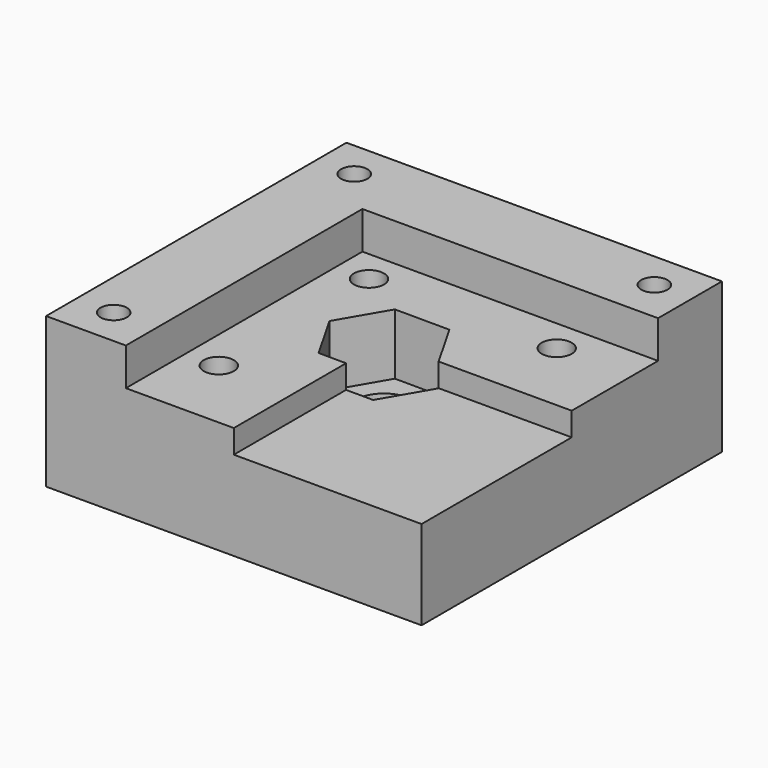
from build123d import *

# Parameters (mm, degrees)
F0_W      = 40
F0_H      = 40
F1_DEPTH  = 16
F2_R      = 3.1
F3_DEPTH  = 14.7
F4_W      = 31.5
F4_H      = 31.5
F5_DEPTH  = 4
F8_DEPTH  = 7
F9_W      = 20
F9_H      = 20
F10_DEPTH = 3
F11_R     = 1.6
F12_DEPTH = 25
F14_R     = 4.8
F15_DEPTH = 1
F16_R     = 1.4
F17_DEPTH = 25


with BuildPart() as f1:
    # F0 (on Top) → F1 (new body)
    with BuildSketch(Plane.XY):
        Rectangle(F0_W, F0_H)
    extrude(amount=-F1_DEPTH)

    # F2 (on Top) → F3 (cut)
    with BuildSketch(Plane.XY):
        Circle(F2_R)
    extrude(amount=-F3_DEPTH, mode=Mode.SUBTRACT)

    # F4 (on Top) → F5 (cut)
    with BuildSketch(Plane.XY):
        with Locations((4.25, -4.25)):
            Rectangle(F4_W, F4_H)
    extrude(amount=-F5_DEPTH, mode=Mode.SUBTRACT)

    # F7 (on offset) → F8 (cut)
    with BuildSketch(Plane.XY.offset(-3.5)):
        Polygon((5.831176, -0.026889), (2.938874, 5.036502), (-2.892302, 5.063391), (-5.831176, 0.026889), (-2.938874, -5.036502), (2.892302, -5.063391), align=None)
    extrude(amount=-F8_DEPTH, mode=Mode.SUBTRACT)

    # F9 (on offset) → F10 (cut)
    with BuildSketch(Plane.XY.offset(-3.5)):
        with Locations((10, -10)):
            Rectangle(F9_W, F9_H)
    extrude(amount=-F10_DEPTH, mode=Mode.SUBTRACT)

    # F11 (on offset) → F12 (cut)
    with BuildSketch(Plane.XY.offset(-3.5)):
        with Locations((-8, 8)):
            Circle(F11_R)
        with Locations((12, 8)):
            Circle(F11_R)
        with Locations((-8, -12)):
            Circle(F11_R)
    extrude(amount=-F12_DEPTH, mode=Mode.SUBTRACT)

    # F14 (on offset) → F15 (cut)
    with BuildSketch(Plane.XY.offset(-16)):
        Circle(F14_R)
    extrude(amount=F15_DEPTH, mode=Mode.SUBTRACT)

    # F16 (on Top) → F17 (cut)
    with BuildSketch(Plane.XY):
        with Locations((-15.967699, 16)):
            Circle(F16_R)
        with Locations((16, 16)):
            Circle(F16_R)
        with Locations((-16, -16)):
            Circle(F16_R)
    extrude(amount=-F17_DEPTH, mode=Mode.SUBTRACT)


solid = f1.part
